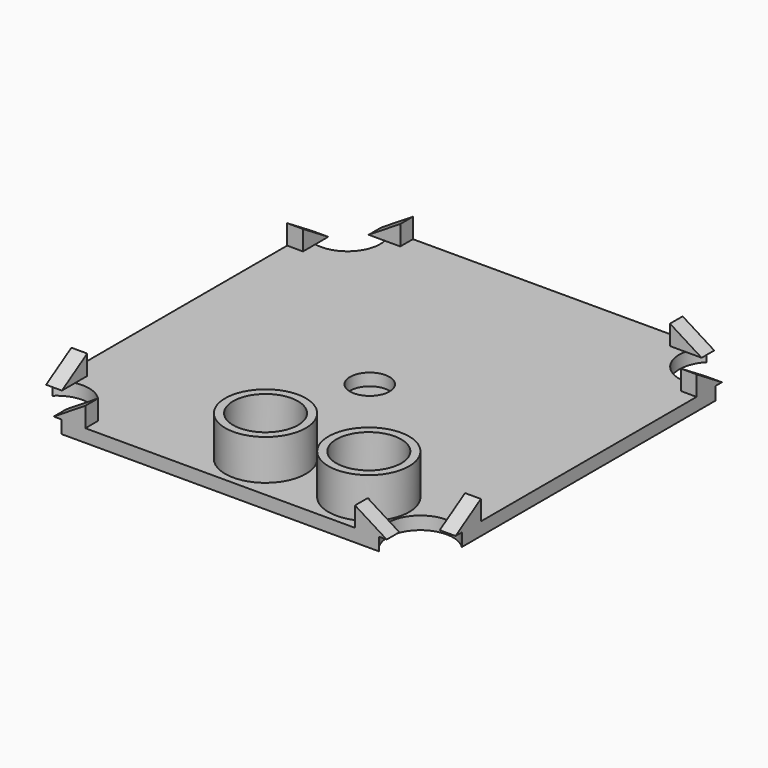
from build123d import *

# Parameters (mm, degrees)
SKETCH108_W     = 108
SKETCH108_H     = 108
PAD045_DEPTH    = 3.27
FILLET007_R     = 8
SKETCH_R        = 8.2
POCKET_DEPTH    = 3.271
SKETCH131_R     = 10.2
SKETCH131_R_2   = 8.2
PAD_DEPTH       = 10.2
SKETCH132_W     = 108
SKETCH132_H     = 108
POCKET052_DEPTH = 3.271
SKETCH133_R     = 5
POCKET053_DEPTH = 3.271
SKETCH134_W     = 4
SKETCH134_H     = 8
SKETCH134_W_2   = 8
SKETCH134_H_2   = 4
PAD052_DEPTH    = 5
POCKET054_DEPTH = 4
POCKET055_DEPTH = 4
POCKET056_DEPTH = 4
POCKET057_DEPTH = 4
SKETCH139_R     = 8.2
SKETCH139_R_2   = 5
PAD053_DEPTH    = 0.2


with BuildPart() as part:
    # Sketch108 → Pad045 (new body)
    with BuildSketch(Plane.XY):
        with Locations((54, 54)):
            Rectangle(SKETCH108_W, SKETCH108_H)
    extrude(amount=PAD045_DEPTH)

    # Fillet007
    fillet007_edges = [part.edges().sort_by_distance(p)[0] for p in [
        (0, 0, 1.635),
        (0, 108, 1.635),
        (108, 108, 1.635),
        (108, 0, 1.635),
    ]]
    fillet(fillet007_edges, radius=FILLET007_R)

    # Sketch (on Face5 of Fillet007) → Pocket (cut, through all)
    with BuildSketch(Plane.XY.offset(3.27)):
        with Locations((55.9, 14.2)):
            Circle(SKETCH_R)
        with Locations((82, 14.2)):
            Circle(SKETCH_R)
    extrude(amount=-POCKET_DEPTH, mode=Mode.SUBTRACT)

    # Sketch131 (on Face5 of Pocket) → Pad (join)
    with BuildSketch(Plane.XY.offset(3.27)):
        with Locations((55.9, 14.2)):
            Circle(SKETCH131_R)
        with Locations((55.9, 14.2)):
            Circle(SKETCH131_R_2, mode=Mode.SUBTRACT)
        with Locations((82, 14.2)):
            Circle(SKETCH131_R)
        with Locations((82, 14.2)):
            Circle(SKETCH131_R_2, mode=Mode.SUBTRACT)
    extrude(amount=PAD_DEPTH)

    # Sketch132 (on Face5 of Pad) → Pocket052 (cut, through all)
    with BuildSketch(Plane.XY.offset(3.27)):
        with Locations((54, 54)):
            Rectangle(SKETCH132_W, SKETCH132_H)
        with BuildLine():
            Line((2.25, 94.088366), (2.25, 13.918289))
            ThreePointArc((13.91388, 2.25), (13.833782, 13.833813), (2.25, 13.918289))
            Line((13.91388, 2.25), (94.083957, 2.25))
            ThreePointArc((105.75, 13.916052), (94.167504, 13.832496), (94.083957, 2.25))
            Line((105.75, 94.086129), (105.75, 13.916052))
            ThreePointArc((94.085398, 105.75), (94.217085, 94.217093), (105.75, 94.086129))
            Line((13.915321, 105.75), (94.085398, 105.75))
            ThreePointArc((2.25, 94.088366), (13.766826, 94.233221), (13.915321, 105.75))
        make_face(mode=Mode.SUBTRACT)
    extrude(amount=-POCKET052_DEPTH, mode=Mode.SUBTRACT)

    # Sketch133 (on Face1 of Pocket052) → Pocket053 (cut, through all)
    with BuildSketch(Plane.XY.offset(3.27)):
        with Locations((52, 52)):
            Circle(SKETCH133_R)
    extrude(amount=-POCKET053_DEPTH, mode=Mode.SUBTRACT)

    # Sketch134 (on Face1 of Pocket053) → Pad052 (join)
    with BuildSketch(Plane.XY.offset(3.27)):
        with Locations((4.25, 92.088366)):
            Rectangle(SKETCH134_W, SKETCH134_H)
        with Locations((15.915321, 103.75)):
            Rectangle(SKETCH134_W_2, SKETCH134_H_2)
        with Locations((92.085398, 103.75)):
            Rectangle(SKETCH134_W_2, SKETCH134_H_2)
        with Locations((103.75, 92.086129)):
            Rectangle(SKETCH134_W, SKETCH134_H)
        with Locations((103.75, 15.916052)):
            Rectangle(SKETCH134_W, SKETCH134_H)
        with Locations((92.083957, 4.25)):
            Rectangle(SKETCH134_W_2, SKETCH134_H_2)
        with Locations((15.91388, 4.25)):
            Rectangle(SKETCH134_W_2, SKETCH134_H_2)
        with Locations((4.25, 15.918289)):
            Rectangle(SKETCH134_W, SKETCH134_H)
    extrude(amount=PAD052_DEPTH)

    # Sketch135 (on Face24 of Pad052) → Pocket054 (cut)
    with BuildSketch(Plane.YZ.offset(105.75)):
        Polygon((96.086129, 8.27), (88.086129, 8.27), (96.086129, 3.27), align=None)
        Polygon((11.916052, 8.27), (19.916052, 8.27), (11.916052, 3.27), align=None)
    extrude(amount=-POCKET054_DEPTH, mode=Mode.SUBTRACT)

    # Sketch136 (on Face27 of Pocket054) → Pocket055 (cut)
    with BuildSketch(Plane(origin=(0, 105.75, 0), x_dir=(-1, 0, 0), z_dir=(0, 1, 0))):
        Polygon((-96.085398, 8.27), (-88.085398, 8.27), (-96.085398, 3.27), align=None)
        Polygon((-19.915321, 8.27), (-11.915321, 8.27), (-11.915321, 3.27), align=None)
    extrude(amount=-POCKET055_DEPTH, mode=Mode.SUBTRACT)

    # Sketch137 (on Face18 of Pocket055) → Pocket056 (cut)
    with BuildSketch(Plane(origin=(2.25, 0, 0), x_dir=(0, -1, 0), z_dir=(-1, 0, 0))):
        Polygon((-96.088366, 8.27), (-88.088366, 8.27), (-96.088366, 3.27), align=None)
        Polygon((-19.918289, 8.27), (-11.918289, 8.27), (-11.918289, 3.27), align=None)
    extrude(amount=-POCKET056_DEPTH, mode=Mode.SUBTRACT)

    # Sketch138 (on Face17 of Pocket056) → Pocket057 (cut)
    with BuildSketch(Plane.XZ.offset(-2.25)):
        Polygon((11.91388, 8.27), (19.91388, 8.27), (11.91388, 3.27), align=None)
        Polygon((88.083957, 8.27), (96.083957, 8.27), (96.083957, 3.27), align=None)
    extrude(amount=-POCKET057_DEPTH, mode=Mode.SUBTRACT)

    # Sketch139 (on Face1 of Pocket057) → Pad053 (join)
    with BuildSketch(Plane(origin=(0, 0, 0), x_dir=(1, 0, 0), z_dir=(0, 0, -1))):
        with Locations((55.9, -14.2)):
            Circle(SKETCH139_R)
        with Locations((82, -14.2)):
            Circle(SKETCH139_R)
        with Locations((52, -52)):
            Circle(SKETCH139_R_2)
    extrude(amount=-PAD053_DEPTH)


with BuildPart() as part_1:
    # Body020 placement: moved
    add(part.part.moved(Location((0, 0, 102))))


solid = part_1.part
